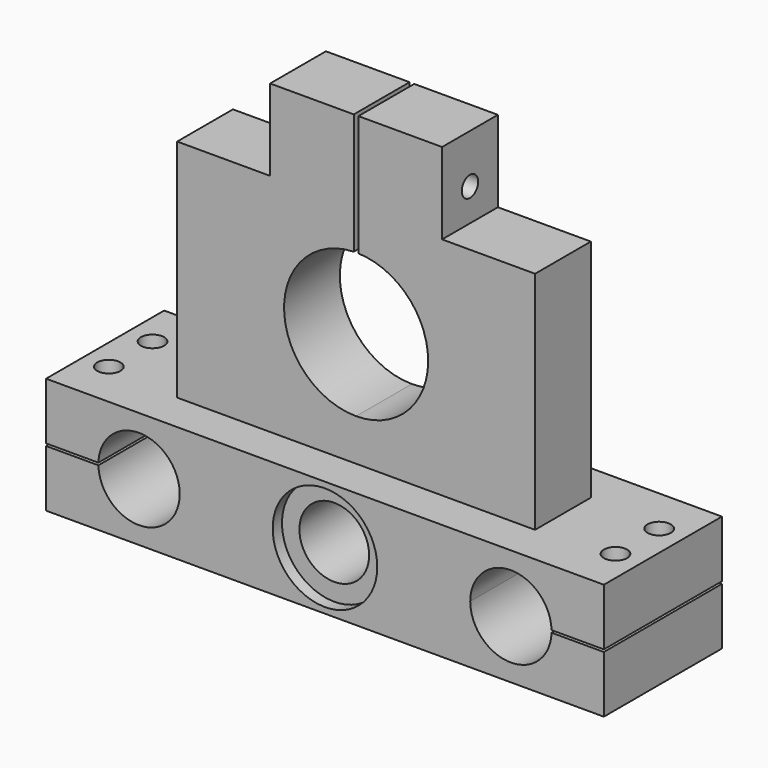
from build123d import *

# Parameters (mm, degrees)
F0_W            = 240
F0_H            = 50
F1_DEPTH        = 63.5
F3_DEPTH        = 63.501
F4_R            = 22.5
F5_DEPTH        = 5
F6_R            = 22.5
F7_DEPTH        = 5
F8_W            = 33.4643870592
F8_H            = 0.5
F8_W_2          = 31.9364720583
F9_DEPTH        = 63.501
F11_D           = 8.8
F11_DEPTH       = 35
F11_CBORE_D     = 10
F11_CBORE_DEPTH = 25
F11_TIP         = 2.6437867237
F12_W           = 154
F12_H           = 30
F13_DEPTH       = 132
F15_DEPTH       = 63.501
F16_W           = 1
F16_H           = 104.974
F17_DEPTH       = 46.751
F18_W           = 40
F18_H           = 35
F19_DEPTH       = 46.751
F21_D           = 8.8
F21_DEPTH       = 93
F21_TIP         = 2.6437867237


with BuildPart() as f1:
    # F0 (on Front) → F1 (new body)
    with BuildSketch(Plane.XZ):
        with Locations((120, 25)):
            Rectangle(F0_W, F0_H)
    extrude(amount=F1_DEPTH)

    # F2 (on face) → F3 (cut, through all)
    with BuildSketch(Plane.XZ.offset(63.5)):
        with BuildLine():
            Line((22.5, 25), (40, 25))
            Line((40, 25), (57.5, 25))
            ThreePointArc((57.5, 25), (40, 42.5), (22.5, 25))
        make_face()
        with BuildLine():
            Line((57.5, 25), (40, 25))
            Line((40, 25), (22.5, 25))
            ThreePointArc((22.5, 25), (40, 7.5), (57.5, 25))
        make_face()
        with BuildLine():
            ThreePointArc((217.5, 25), (200, 42.5), (182.5, 25))
            Line((182.5, 25), (200, 25))
            Line((200, 25), (217.5, 25))
        make_face()
        with BuildLine():
            Line((200, 25), (182.5, 25))
            ThreePointArc((182.5, 25), (200, 7.5), (217.5, 25))
            Line((217.5, 25), (200, 25))
        make_face()
        with BuildLine():
            ThreePointArc((120, 40), (109.3933982822, 35.6066017178), (105, 25))
            Line((105, 25), (120, 25))
            Line((120, 25), (120, 40))
        make_face()
        with BuildLine():
            Line((120, 25), (105, 25))
            ThreePointArc((105, 25), (109.3933982822, 14.3933982822), (120, 10))
            Line((120, 10), (120, 25))
        make_face()
        with BuildLine():
            Line((120, 40), (120, 25))
            Line((120, 25), (135, 25))
            ThreePointArc((135, 25), (130.6066017178, 35.6066017178), (120, 40))
        make_face()
        with BuildLine():
            Line((135, 25), (120, 25))
            Line((120, 25), (120, 10))
            ThreePointArc((120, 10), (130.6066017178, 14.3933982822), (135, 25))
        make_face()
    extrude(amount=-F3_DEPTH, mode=Mode.SUBTRACT)

    # F4 (on face) → F5 (cut)
    with BuildSketch(Plane.XZ.offset(63.5)):
        with Locations((120, 25)):
            Circle(F4_R)
    extrude(amount=-F5_DEPTH, mode=Mode.SUBTRACT)

    # F6 (on face) → F7 (cut)
    with BuildSketch(Plane(origin=(0, 0, 0), x_dir=(-1, 0, 0), z_dir=(0, 1, 0))):
        with Locations((-120, 25)):
            Circle(F6_R)
    extrude(amount=-F7_DEPTH, mode=Mode.SUBTRACT)

    # F8 (on face) → F9 (cut, through all)
    with BuildSketch(Plane.XZ.offset(63.5)):
        with Locations((16.7321935296, 25.25)):
            Rectangle(F8_W, F8_H)
        with Locations((16.7321935296, 24.75)):
            Rectangle(F8_W, F8_H)
        with Locations((224.0317639709, 24.75)):
            Rectangle(F8_W_2, F8_H)
        with Locations((224.0317639709, 25.25)):
            Rectangle(F8_W_2, F8_H)
    extrude(amount=-F9_DEPTH, mode=Mode.SUBTRACT)

    # F11
    with Locations(Plane.XY.offset(50)):
        with Locations((11, -20), (11, -43.5), (229, -20), (229, -43.5)):
            CounterBoreHole(F11_D / 2, F11_CBORE_D / 2, F11_CBORE_DEPTH, depth=F11_DEPTH)
            with Locations((0, 0, -(F11_DEPTH + F11_TIP / 2))):  # 118° drill point
                Cone(0, F11_D / 2, F11_TIP, mode=Mode.SUBTRACT)

    # F12 (on face) → F13 (join)
    with BuildSketch(Plane.XY.offset(50)):
        with Locations((120, -31.75)):
            Rectangle(F12_W, F12_H)
    extrude(amount=F13_DEPTH)

    # F14 (on face) → F15 (cut, through all)
    with BuildSketch(Plane.XZ.offset(63.5)):
        with BuildLine():
            ThreePointArc((120, 68), (141.9203102168, 77.0796897832), (151, 99))
            ThreePointArc((151, 99), (98.0796897832, 120.9203102168), (120, 68))
        make_face()
        with BuildLine():
            ThreePointArc((151, 99), (98.0796897832, 120.9203102168), (120, 68))
            ThreePointArc((120, 68), (141.9203102168, 77.0796897832), (151, 99))
        make_face()
    extrude(amount=-F15_DEPTH, mode=Mode.SUBTRACT)

    # F16 (on face) → F17 (cut, through all)
    with BuildSketch(Plane.XZ.offset(46.75)):
        with Locations((119.5, 151.487)):
            Rectangle(F16_W, F16_H)
        with Locations((120.5, 151.487)):
            Rectangle(F16_W, F16_H)
    extrude(amount=-F17_DEPTH, mode=Mode.SUBTRACT)

    # F18 (on face) → F19 (cut, through all)
    with BuildSketch(Plane.XZ.offset(46.75)):
        with Locations((63, 164.5)):
            Rectangle(F18_W, F18_H)
        with Locations((177, 164.5)):
            Rectangle(F18_W, F18_H)
    extrude(amount=-F19_DEPTH, mode=Mode.SUBTRACT)

    # F21
    with Locations(Plane(origin=(83, 0, 0), x_dir=(0, -1, 0), z_dir=(-1, 0, 0))):
        with Locations((31.75, 160.9999984503)):
            Hole(F21_D / 2, depth=F21_DEPTH)
            with Locations((0, 0, -(F21_DEPTH + F21_TIP / 2))):  # 118° drill point
                Cone(0, F21_D / 2, F21_TIP, mode=Mode.SUBTRACT)


solid = f1.part
